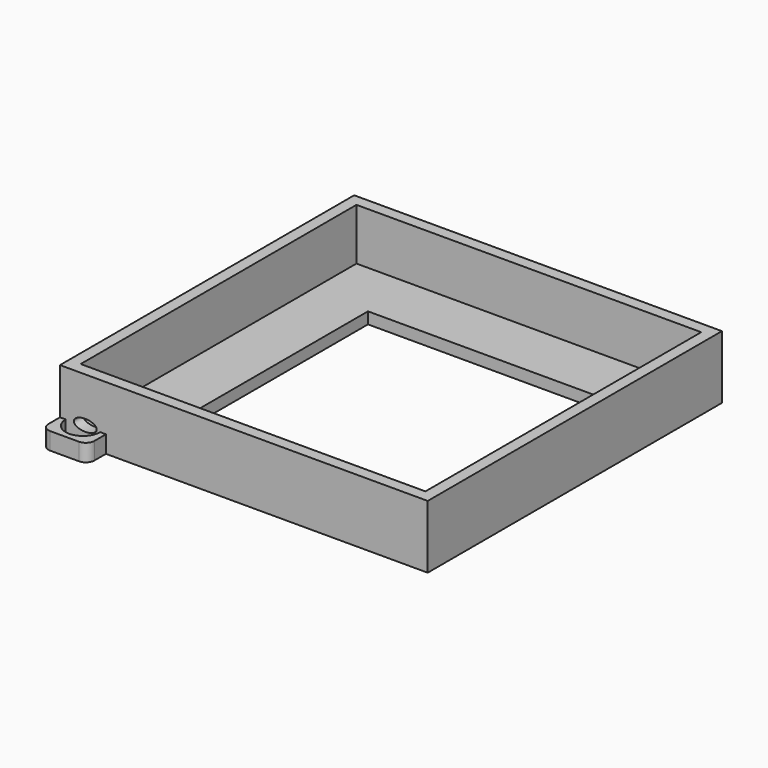
from build123d import *

# Parameters (mm, degrees)
F0_W      = 320
F0_H      = 320
F1_DEPTH  = 10
F2_W      = 320
F2_H      = 320
F2_W_2    = 300
F2_H_2    = 300
F3_DEPTH  = 45
F4_W      = 200
F4_H      = 200
F5_DEPTH  = 25
F6_W      = 40
F6_H      = 15
F7_DEPTH  = 20
F9_DEPTH  = 10
F10_R     = 7.5
F12_DEPTH = 10
F13_R     = 1.5
F14_DEPTH = 25
F15_R     = 1
F16_DEPTH = 5


with BuildPart() as f1:
    # F0 (on Top) → F1 (new body)
    with BuildSketch(Plane.XY):
        Rectangle(F0_W, F0_H)
    extrude(amount=F1_DEPTH)

    # F2 (on face) → F3 (join)
    with BuildSketch(Plane.XY.offset(10)):
        Rectangle(F2_W, F2_H)
        Rectangle(F2_W_2, F2_H_2, mode=Mode.SUBTRACT)
    extrude(amount=F3_DEPTH)

    # F4 (on face) → F5 (cut)
    with BuildSketch(Plane.XY.offset(10)):
        Rectangle(F4_W, F4_H)
    extrude(amount=-F5_DEPTH, mode=Mode.SUBTRACT)

    # F6 (on face) → F7 (join)
    with BuildSketch(Plane.XZ.offset(160)):
        with Locations((-140, 7.5)):
            Rectangle(F6_W, F6_H)
    extrude(amount=F7_DEPTH)

    # F8 (on face) → F9 (cut)
    with BuildSketch(Plane.XY.offset(15)):
        with BuildLine():
            Line((-125, -160), (-155, -160))
            ThreePointArc((-155, -160), (-140, -175), (-125, -160))
        make_face()
    extrude(amount=-F9_DEPTH, mode=Mode.SUBTRACT)

    # F10
    f10_edges = [f1.edges().sort_by_distance(p)[0] for p in [
        (-120, -180, 7.5),
        (-160, -180, 7.5),
    ]]
    fillet(f10_edges, radius=F10_R)

    # F11 (on face) → F12 (cut)
    with BuildSketch(Plane(origin=(0, -150, 0), x_dir=(-1, 0, 0), z_dir=(0, 1, 0))):
        with BuildLine():
            add(Edge.make_bspline(
                [(138, 11), (148, 11), (148, 16)],
                knots=[4.7123889804, 4.7123889804, 4.7123889804, 6.2831853072, 6.2831853072, 6.2831853072], degree=2, weights=[1, 0.7071067812, 1]))
            add(Edge.make_bspline(
                [(148, 16), (148, 28.0710678119), (130.9289321881, 19.5355339059), (113.8578643763, 11), (138, 11)],
                knots=[0, 0, 0, 2.3561944902, 2.3561944902, 4.7123889804, 4.7123889804, 4.7123889804], degree=2, weights=[1, 0.3826834324, 1, 0.3826834324, 1]))
        make_face()
    extrude(amount=-F12_DEPTH, mode=Mode.SUBTRACT)

    # F13 (on face) → F14 (cut)
    with BuildSketch(Plane(origin=(0, 0, 0), x_dir=(1, 0, 0), z_dir=(0, 0, -1))):
        with Locations((-40, 155)):
            Circle(F13_R)
        with Locations((40, 155)):
            Circle(F13_R)
        with Locations((40, -155)):
            Circle(F13_R)
        with Locations((-40, -155)):
            Circle(F13_R)
    extrude(amount=-F14_DEPTH, mode=Mode.SUBTRACT)

    # F15 (on face) → F16 (cut)
    with BuildSketch(Plane(origin=(0, 0, 0), x_dir=(1, 0, 0), z_dir=(0, 0, -1))):
        with Locations((-125, 15)):
            Circle(F15_R)
    extrude(amount=-F16_DEPTH, mode=Mode.SUBTRACT)


solid = f1.part
